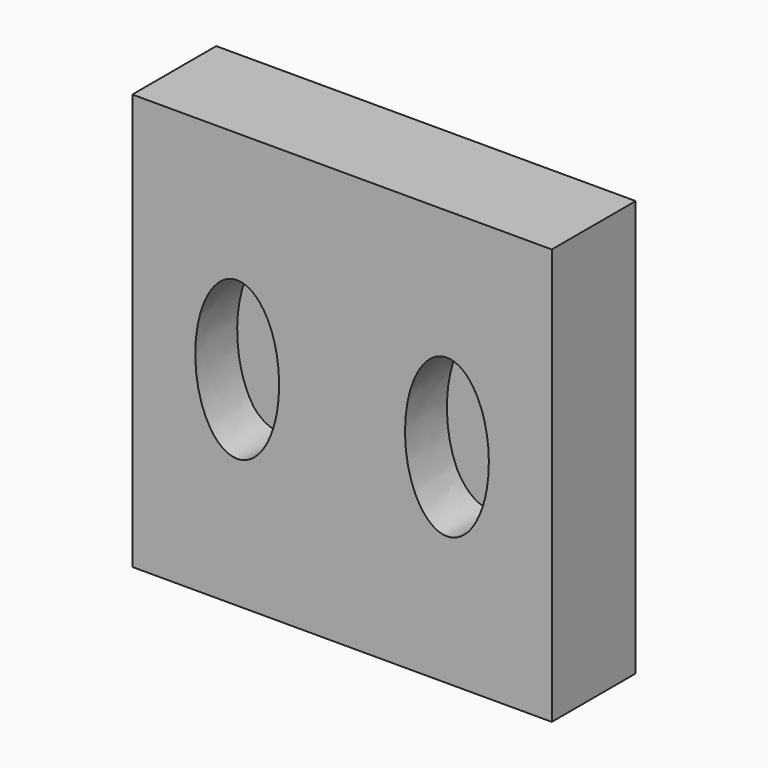
from build123d import *

# Parameters (mm, degrees)
F0_W     = 50.8
F0_H     = 100.7414103135
F1_DEPTH = 25.4
F3_DEPTH = 12.7


with BuildPart() as f1:
    # F0 (on Front) → F1 (new body)
    with BuildSketch(Plane.XZ):
        with Locations((-25.4, 0)):
            Rectangle(F0_W, F0_H)
        with BuildLine():
            add(Edge.make_bspline(
                [(-25.4, -19.05), (-7.8023637951, -19.05), (-16.6011818976, 9.525), (-25.4, 38.1), (-34.1988181024, 9.525), (-42.9976362049, -19.05), (-25.4, -19.05)],
                knots=[0, 0, 0, 2.0943951024, 2.0943951024, 4.1887902048, 4.1887902048, 6.2831853072, 6.2831853072, 6.2831853072], degree=2, weights=[1, 0.5, 1, 0.5, 1, 0.5, 1]))
        make_face(mode=Mode.SUBTRACT)
        with Locations((25.4, 0)):
            Rectangle(F0_W, F0_H)
        with BuildLine():
            add(Edge.make_bspline(
                [(25.4, -19.05), (42.9976362049, -19.05), (34.1988181024, 9.525), (25.4, 38.1), (16.6011818976, 9.525), (7.8023637951, -19.05), (25.4, -19.05)],
                knots=[0, 0, 0, 2.0943951024, 2.0943951024, 4.1887902048, 4.1887902048, 6.2831853072, 6.2831853072, 6.2831853072], degree=2, weights=[1, 0.5, 1, 0.5, 1, 0.5, 1]))
        make_face(mode=Mode.SUBTRACT)
    extrude(amount=F1_DEPTH)

    # F2 (on Front) → F3 (join)
    with BuildSketch(Plane.XZ):
        with BuildLine():
            add(Edge.make_bspline(
                [(-25.4419863422, -18.4568194823), (-6.9422556929, -18.4568194823), (-16.1921210175, 9.0204141883), (-25.4419863422, 36.497647859), (-34.6918516669, 9.0204141883), (-43.9417169916, -18.4568194823), (-25.4419863422, -18.4568194823)],
                knots=[0, 0, 0, 2.0943951024, 2.0943951024, 4.1887902048, 4.1887902048, 6.2831853072, 6.2831853072, 6.2831853072], degree=2, weights=[1, 0.5, 1, 0.5, 1, 0.5, 1]))
        make_face()
        with BuildLine():
            add(Edge.make_bspline(
                [(25.6180718343, -18.4568194823), (44.1178024837, -18.4568194823), (34.867937159, 9.0204141883), (25.6180718343, 36.497647859), (16.3682065096, 9.0204141883), (7.1183411849, -18.4568194823), (25.6180718343, -18.4568194823)],
                knots=[0, 0, 0, 2.0943951024, 2.0943951024, 4.1887902048, 4.1887902048, 6.2831853072, 6.2831853072, 6.2831853072], degree=2, weights=[1, 0.5, 1, 0.5, 1, 0.5, 1]))
        make_face()
    extrude(amount=F3_DEPTH)


solid = f1.part
